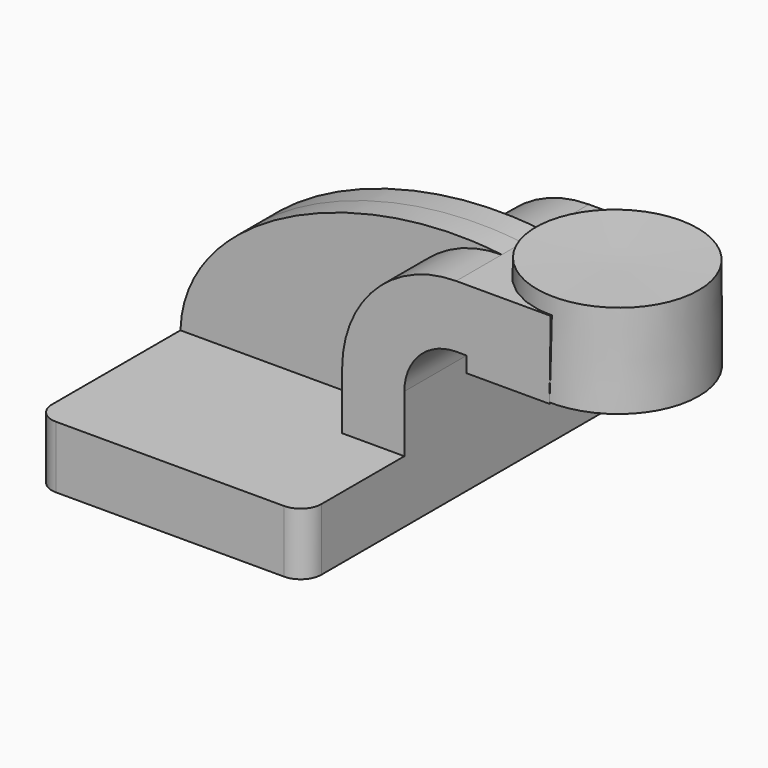
from build123d import *

# Parameters (mm, degrees)
F1_DEPTH = 63.5
F2_DEPTH = 25.4
F3_DEPTH = 7.9375
F5_R     = 6.35


with BuildPart() as f1:
    # F0 (on Front) → F1 (new body, symmetric)
    with BuildSketch(Plane.XZ):
        Polygon((22.225, 9.525), (-41.275, 9.525), (-41.275, -9.525), (41.275, -9.525), (41.275, 9.525), align=None)
    extrude(amount=F1_DEPTH, both=True)

    # F0 (on Front) → F2 (join, symmetric)
    with BuildSketch(Plane.XZ):
        with BuildLine():
            Line((22.225, 27.0002), (22.225, 9.525))
            Line((22.225, 9.525), (41.275, 9.525))
            Line((41.275, 9.525), (41.275, 27.0002))
            ThreePointArc((41.275, 27.0002), (45.9246798487, 38.2255201513), (57.15, 42.8752))
            Line((57.15, 42.8752), (60.325, 42.8752))
            Line((60.325, 42.8752), (60.325, 61.9252))
            Line((60.325, 61.9252), (57.15, 61.9252))
            ThreePointArc((57.15, 61.9252), (32.4542956671, 51.6959043329), (22.225, 27.0002))
        make_face()
        Polygon((86.0870358149, 61.9252), (60.325, 61.9252), (60.325, 42.8752), (60.325, 38.1), (85.7186317444, 38.1), align=None)
    extrude(amount=F2_DEPTH, both=True)

    # F5
    f5_edges = [f1.edges().sort_by_distance(p)[0] for p in [
        (41.275, -63.5, 0),
        (-41.275, -63.5, 0),
        (41.275, 63.5, 0),
        (-41.275, 63.5, 0),
    ]]
    fillet(f5_edges, radius=F5_R)


with BuildPart() as f3:
    # F0 (on Front) → F3 (new body, symmetric)
    with BuildSketch(Plane.XZ):
        with BuildLine():
            add(Edge.make_bspline(
                [(-41.275, 9.525), (-40.1892624795, 43.6672493815), (11.9488732889, 67.5270706415), (57.15, 61.9252)],
                knots=[0, 0, 0, 0, 111.5045361635, 111.5045361635, 111.5045361635, 111.5045361635], degree=3))
            Line((-41.275, 9.525), (22.225, 9.525))
            Line((22.225, 9.525), (22.225, 27.0002))
            ThreePointArc((22.225, 27.0002), (32.4542956671, 51.6959043329), (57.15, 61.9252))
        make_face()
    extrude(amount=F3_DEPTH, both=True)


with BuildPart() as f4:
    # F0 (on Front) → F4 (revolve)
    with BuildSketch(Plane.XZ):
        Polygon((86.1604809761, 66.675), (86.0870358149, 61.9252), (85.7186317444, 38.1), (111.125, 38.1), (111.125, 66.675), align=None)
    revolve(axis=Axis((85.9395563602, 0, 52.3875), (-0.015460942, 0, -0.9998804725)))


solid = Compound([f1.part, f3.part, f4.part])
